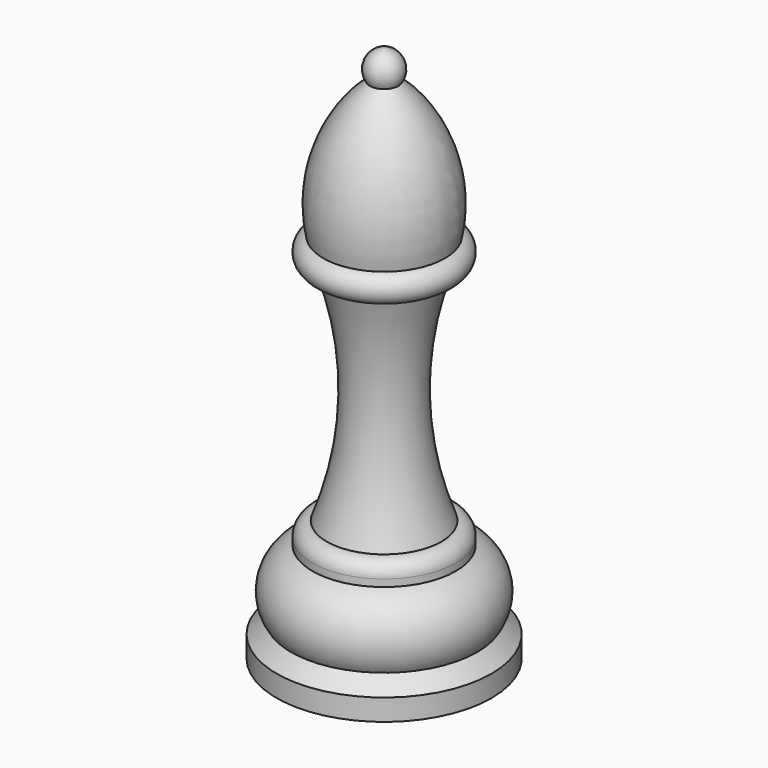
from build123d import *


with BuildPart() as f1:
    # F0 (on Front) → F1 (revolve)
    with BuildSketch(Plane.XZ):
        with BuildLine():
            ThreePointArc((8.5, -26.932983), (10, -24.996492), (8.5, -23.06))
            ThreePointArc((8.5, -23.06), (7.823916, -12.652222), (2, -4))
            ThreePointArc((2, -4), (2.16016, -1.41992), (0, 0))
            Line((0, 0), (0, -75))
            Line((0, -75), (15, -75))
            Line((15, -75), (15, -72))
            Line((15, -72), (13, -70))
            ThreePointArc((13, -70), (13.688326, -64.783119), (10, -61.03))
            Line((10, -61.03), (10, -60.03))
            ThreePointArc((10, -60.03), (9.406004, -58.63089), (8, -58.053402))
            ThreePointArc((8, -58.053402), (4.99225, -42.587853), (7.5, -27.033402))
            Line((7.5, -27.033402), (8.5, -26.932983))
        make_face()
    revolve(axis=Axis((0, 0, -37.5), (0, 0, -1)))


solid = f1.part
